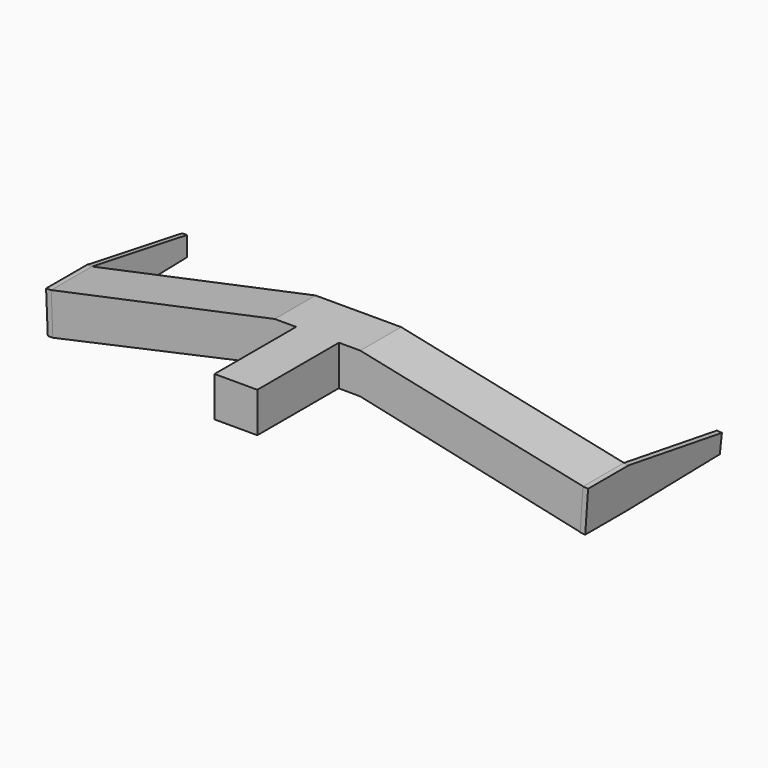
from build123d import *

# Parameters (mm, degrees)
F2_DEPTH  = 25.4
F4_W      = 10.6600150466
F4_H      = 19.955560565
F5_DEPTH  = 50.8
F6_W      = 25.4
F6_H      = 20.6554085787
F7_DEPTH  = 2.54
F10_ANGLE = -3.1396535463


with BuildPart() as f2:
    # F1 (on face) → F2 (new body)
    with BuildSketch(Plane.XZ):
        Polygon((131.8430900574, -44.1751331091), (132.6959133148, -23.53733778), (21.3200300932, 0), (0, 0), (0, -19.955560565), (21.3200300932, -20.126119256), align=None)
    extrude(amount=F2_DEPTH)

    # F3: F2 across face


with BuildPart() as f2_1:
    add(f2.part)
    add(f2.part.mirror(Plane(origin=(0, -12.7, -9.9777802825), x_dir=(0, -1, 0), z_dir=(-1, 0, 0))))

    # F4 (on face) → F5 (join)
    with BuildSketch(Plane.XZ.offset(25.4)):
        with Locations((5.3300075233, -9.9777802825)):
            Rectangle(F4_W, F4_H)
        with Locations((-5.3300075233, -9.9777802825)):
            Rectangle(F4_W, F4_H)
    extrude(amount=F5_DEPTH)


with BuildPart() as f7:
    # F6 (on face) → F7 (new body)
    with BuildSketch(Plane(origin=(-133.4406893247, 0, -5.5142190109), x_dir=(0, -1, 0), z_dir=(-0.9991472815, 0, -0.041288133))):
        Polygon((0, -38.6939091115), (0, -18.0385005328), (-58.8158965111, -27.9716514051), (-58.3201497793, -37.3986288905), align=None)
        with Locations((12.7, -28.3662048222)):
            Rectangle(F6_W, F6_H)
    extrude(amount=F7_DEPTH)


with BuildPart() as f8_1:
    # F8: instance of F7
    add(f7.part.mirror(Plane(origin=(132.2695016861, -12.7, -33.8562354445), x_dir=(0, 1, 0), z_dir=(0.9991472815, 0, -0.041288133))))


with BuildPart() as f8_1_1:
    # F9: moved
    add(f8_1.part.moved(Location((-263.5751962662, -0.270395074, 22.108213976))))


with BuildPart() as f8_1_2:
    # F10: moved
    add(f8_1_1.part.rotate(Axis((133.5755860176, -12.970395074, -44.1364724936), (0, 1, 0)), F10_ANGLE))


solid = Compound([f2_1.part, f7.part, f8_1_2.part])
